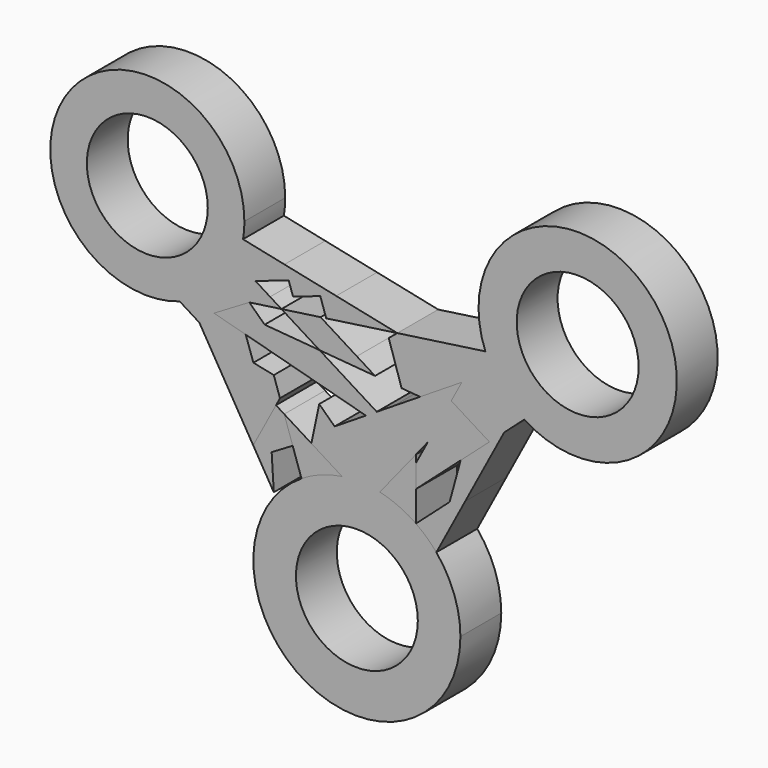
from build123d import *

# Parameters (mm, degrees)
F0_R     = 10.6549645795
F1_DEPTH = 9
F0_R_2   = 10.7427439212
F0_R_3   = 10.7368986297
F2_DEPTH = 9


with BuildPart() as f1:
    # F0 (on Front) → F1 (new body)
    with BuildSketch(Plane.XZ):
        with BuildLine():
            ThreePointArc((-20.0641651181, 8.3083463069), (-19.8847789494, 9.7287968623), (-19.8248435155, 11.1592747271))
            ThreePointArc((-19.8248435155, 11.1592747271), (-50.8899433357, 21.0294767793), (-31.2187251884, -4.9609924738))
            ThreePointArc((-31.2187251884, -4.9609924738), (-29.9643391784, -4.4603530234), (-28.7533751249, -3.8622809686))
            ThreePointArc((-28.7533751249, -3.8622809686), (-25.1760860399, -1.2658091713), (-22.3838279271, 2.160844827))
            ThreePointArc((-22.3838279271, 2.160844827), (-21.7131808774, 3.3479085645), (-21.1392335311, 4.5846268937))
            ThreePointArc((-21.1392335311, 4.5846268937), (-20.4958618387, 6.4159304479), (-20.0641651181, 8.3083463069))
        make_face()
        with Locations((-36.9254052639, 11.1592747271)):
            Circle(F0_R, mode=Mode.SUBTRACT)
        Polygon((-25.0467206421, -8.8123781663), (-27.7558582251, -7.1218522362), (-18.2671947269, -23.0767760102), (-15.3557659771, -17.6188090984), (-14.2515066154, -15.5486876646), align=None)
        Polygon((-18.2299170021, -10.2454867911), (-25.0467206421, -8.8123781663), (-14.2515066154, -15.5486876646), (-13.549314167, -14.2323088422), (-14.6395119997, -11.0003039528), align=None)
        with BuildLine():
            ThreePointArc((-28.7533751249, -3.8622809686), (-29.9643391784, -4.4603530234), (-31.2187251884, -4.9609924738))
            Line((-31.2187251884, -4.9609924738), (-27.7558582251, -7.1218522362))
            Line((-27.7558582251, -7.1218522362), (-25.0467206421, -8.8123781663))
            Line((-25.0467206421, -8.8123781663), (-18.2299170021, -10.2454867911))
            Line((-18.2299170021, -10.2454867911), (-19.5899773533, -6.3213815905))
            Line((-19.5899773533, -6.3213815905), (-25.1752715024, -4.8225052285))
            Line((-25.1752715024, -4.8225052285), (-28.7533751249, -3.8622809686))
        make_face()
        with BuildLine():
            ThreePointArc((-22.3838279271, 2.160844827), (-25.1760860399, -1.2658091713), (-28.7533751249, -3.8622809686))
            Line((-28.7533751249, -3.8622809686), (-25.1752715024, -4.8225052285))
            Line((-25.1752715024, -4.8225052285), (-18.9498499083, -1.120141527))
            Line((-18.9498499083, -1.120141527), (-22.3838279271, 2.160844827))
        make_face()
        with BuildLine():
            Line((-17.8814207304, 2.5517227513), (-21.1392335311, 4.5846268937))
            ThreePointArc((-21.1392335311, 4.5846268937), (-21.7131808774, 3.3479085645), (-22.3838279271, 2.160844827))
            Line((-22.3838279271, 2.160844827), (-18.9498499083, -1.120141527))
            Line((-18.9498499083, -1.120141527), (-13.2888618781, -0.3140747904))
            Line((-13.2888618781, -0.3140747904), (-15.2833322411, 0.9304924426))
            Line((-15.2833322411, 0.9304924426), (-17.8814207304, 2.5517227513))
        make_face()
        with BuildLine():
            Line((-12.7662490274, 6.7740925649), (-20.0641651181, 8.3083463069))
            ThreePointArc((-20.0641651181, 8.3083463069), (-20.4958618387, 6.4159304479), (-21.1392335311, 4.5846268937))
            Line((-21.1392335311, 4.5846268937), (-17.8814207304, 2.5517227513))
            Line((-17.8814207304, 2.5517227513), (-12.0100549904, 4.5317209614))
            Line((-12.0100549904, 4.5317209614), (-12.7662490274, 6.7740925649))
        make_face()
        Polygon((-3.6427459963, 4.856042468), (-12.7662490274, 6.7740925649), (-12.0100549904, 4.5317209614), (-11.2538609534, 2.2893493578), (-6.4448630441, 3.9110857092), align=None)
        Polygon((7.1240645524, 2.5925169398), (-3.6427459963, 4.856042468), (-6.4448630441, 3.9110857092), (-5.3988756119, 0.809378474), align=None)
    extrude(amount=F1_DEPTH)


with BuildPart() as f1b:
    # F0 (on Front) → F1, piece 2 (new body)
    with BuildSketch(Plane.XZ):
        Polygon((20.3268225381, -0.1831221045), (7.1240645524, 2.5925169398), (5.614161229, 1.3388415648), (7.8762154199, -5.7102254828), (11.1348283668, -5.9817398032), (12.4938078114, -5.1244500669), (18.489636341, -1.3420806721), align=None)
        with BuildLine():
            Line((22.6365502477, 4.8013360815), (7.1240645524, 2.5925169398))
            Line((7.1240645524, 2.5925169398), (20.3268225381, -0.1831221045))
            Line((20.3268225381, -0.1831221045), (23.9641546685, 2.1114287921))
            ThreePointArc((23.9641546685, 2.1114287921), (23.242508483, 3.4278335283), (22.6365502477, 4.8013360815))
        make_face()
        with BuildLine():
            Line((23.9641546685, 2.1114287921), (20.3268225381, -0.1831221045))
            Line((20.3268225381, -0.1831221045), (18.489636341, -1.3420806721))
            Line((18.489636341, -1.3420806721), (16.6330827417, -4.8225052285))
            Line((16.6330827417, -4.8225052285), (23.3463423185, -9.0116388705))
            Line((23.3463423185, -9.0116388705), (25.9445380029, -6.6990820895))
            Line((25.9445380029, -6.6990820895), (29.4831423015, -3.5495027815))
            ThreePointArc((29.4831423015, -3.5495027815), (26.3991907736, -1.0353591536), (23.9641546685, 2.1114287921))
        make_face()
        Polygon((19.1012873615, -19.5802079989), (25.9445380029, -6.6990820895), (23.3463423185, -9.0116388705), (18.2790667344, -13.5218313026), align=None)
        Polygon((16.345179662, -20.6019715923), (14.0030779473, -29.1766236231), (19.1012873615, -19.5802079989), (18.2790667344, -13.5218313026), align=None)
        with BuildLine():
            ThreePointArc((10.4080032293, -25.886430227), (12.315906958, -27.410933605), (14.0030779473, -29.1766236231))
            Line((14.0030779473, -29.1766236231), (16.345179662, -20.6019715923))
            Line((16.345179662, -20.6019715923), (10.4080032293, -25.886430227))
        make_face()
        with BuildLine():
            ThreePointArc((56.3764595874, 11.1592747271), (35.6725420551, 28.3261386375), (22.6365502477, 4.8013360815))
            ThreePointArc((22.6365502477, 4.8013360815), (23.242508483, 3.4278335283), (23.9641546685, 2.1114287921))
            ThreePointArc((23.9641546685, 2.1114287921), (26.3991907736, -1.0353591536), (29.4831423015, -3.5495027815))
            ThreePointArc((29.4831423015, -3.5495027815), (47.2899577301, -4.1671619954), (56.3764595874, 11.1592747271))
        make_face()
        with Locations((38.9074608684, 11.1592747271)):
            Circle(F0_R_2, mode=Mode.SUBTRACT)
    extrude(amount=F1_DEPTH)


with BuildPart() as f1c:
    # F0 (on Front) → F1, piece 3 (new body)
    with BuildSketch(Plane.XZ):
        with BuildLine():
            Line((10.4080032293, -16.4924724238), (6.4979792818, -23.8224753755))
            ThreePointArc((6.4979792818, -23.8224753755), (8.5157523786, -24.7355560658), (10.4080032293, -25.886430227))
            Line((10.4080032293, -25.886430227), (10.4080032293, -20.5275704744))
            Line((10.4080032293, -20.5275704744), (10.4080032293, -16.4924724238))
        make_face()
        with BuildLine():
            Line((8.2622126873, -17.829527017), (4.0306175632, -23.0767760102))
            ThreePointArc((4.0306175632, -23.0767760102), (5.2774856482, -23.405991948), (6.4979792818, -23.8224753755))
            Line((6.4979792818, -23.8224753755), (10.4080032293, -16.4924724238))
            Line((10.4080032293, -16.4924724238), (10.4080032293, -15.1687107218))
            Line((10.4080032293, -15.1687107218), (8.2622126873, -17.829527017))
        make_face()
    extrude(amount=F1_DEPTH)


with BuildPart() as f1d:
    # F0 (on Front) → F1, piece 4 (new body)
    with BuildSketch(Plane.XZ):
        with BuildLine():
            Line((-8.0116618445, -19.4424062602), (-12.799695782, -16.4546305281))
            Line((-12.799695782, -16.4546305281), (-11.309759062, -20.8717029341))
            Line((-11.309759062, -20.8717029341), (-9.7626927787, -25.4581418738))
            ThreePointArc((-9.7626927787, -25.4581418738), (-6.3257664341, -23.7578184265), (-2.6093390953, -22.8135036705))
            Line((-2.6093390953, -22.8135036705), (-8.0116618445, -19.4424062602))
        make_face()
    extrude(amount=F1_DEPTH)


with BuildPart() as f2:
    # F0 (on Front) → F2 (new body)
    with BuildSketch(Plane.XZ):
        with BuildLine():
            ThreePointArc((-2.6093390953, -22.8135036705), (-6.3257664341, -23.7578184265), (-9.7626927787, -25.4581418738))
            ThreePointArc((-9.7626927787, -25.4581418738), (-8.7944218619, -56.8503935348), (18.2421567817, -40.8680774271))
            ThreePointArc((18.2421567817, -40.8680774271), (17.1496738656, -34.6499611244), (14.0030779473, -29.1766236231))
            ThreePointArc((14.0030779473, -29.1766236231), (12.315906958, -27.410933605), (10.4080032293, -25.886430227))
            ThreePointArc((10.4080032293, -25.886430227), (8.5157523786, -24.7355560658), (6.4979792818, -23.8224753755))
            ThreePointArc((6.4979792818, -23.8224753755), (5.2774856482, -23.405991948), (4.0306175632, -23.0767760102))
            ThreePointArc((4.0306175632, -23.0767760102), (0.7227283045, -22.6402430016), (-2.6093390953, -22.8135036705))
        make_face()
        with Locations((0, -40.8680774271)):
            Circle(F0_R_3, mode=Mode.SUBTRACT)
        with BuildLine():
            Line((-6.6336407615, -12.8876350643), (-8.0116618445, -19.4424062602))
            Line((-8.0116618445, -19.4424062602), (-2.6093390953, -22.8135036705))
            ThreePointArc((-2.6093390953, -22.8135036705), (0.7227283045, -22.6402430016), (4.0306175632, -23.0767760102))
            Line((4.0306175632, -23.0767760102), (-1.6044713798, -17.6927433157))
            Line((-1.6044713798, -17.6927433157), (-3.9209753848, -15.479444923))
            Line((-3.9209753848, -15.479444923), (-6.6336407615, -12.8876350643))
        make_face()
        Polygon((-1.6044713798, -17.6927433157), (4.0306175632, -23.0767760102), (8.2622126873, -17.829527017), align=None)
        Polygon((23.3463423185, -9.0116388705), (16.6330827417, -4.8225052285), (12.4938078114, -12.5822780238), (10.4080032293, -16.4924724238), (10.4080032293, -20.5275704744), (18.2790667344, -13.5218313026), align=None)
        Polygon((-6.5703091643, -4.506511397), (-16.2496871909, -3.7000057488), (-11.1298363847, -8.5917553575), (1.5874098329, -12.0045710905), (3.5060337104, -10.7942389073), align=None)
        Polygon((16.6330827417, -4.8225052285), (18.489636341, -1.3420806721), (12.4938078114, -5.1244500669), (11.1348283668, -5.9817398032), (6.4692324018, -8.924953956), (10.4080032293, -15.1687107218), (12.4938078114, -12.5822780238), align=None)
        Polygon((6.4692324018, -8.924953956), (3.5060337104, -10.7942389073), (4.0306175632, -11.1215838939), (8.2622126873, -17.829527017), (10.4080032293, -15.1687107218), align=None)
        Polygon((3.5060337104, -10.7942389073), (1.5874098329, -12.0045710905), (-3.9209753848, -15.479444923), (-1.6044713798, -17.6927433157), (8.2622126873, -17.829527017), (4.0306175632, -11.1215838939), align=None)
        Polygon((-18.9498499083, -1.120141527), (-25.1752715024, -4.8225052285), (-19.5899773533, -6.3213815905), (-15.8821335544, -7.3164230827), (-11.1298363847, -8.5917553575), (-16.2496871909, -3.7000057488), align=None)
    extrude(amount=F2_DEPTH)


with BuildPart() as f2b:
    # F0 (on Front) → F2, piece 2 (new body)
    with BuildSketch(Plane.XZ):
        Polygon((-15.3557659771, -17.6188090984), (-18.2671947269, -23.0767760102), (-14.6395119997, -29.1766236231), (-15.017528112, -23.0767760102), align=None)
        Polygon((-12.799695782, -16.4546305281), (-14.2515066154, -15.5486876646), (-15.3557659771, -17.6188090984), (-15.017528112, -23.0767760102), (-11.309759062, -20.8717029341), align=None)
    extrude(amount=F2_DEPTH)


with BuildPart() as f2c:
    # F0 (on Front) → F2, piece 3 (new body)
    with BuildSketch(Plane.XZ):
        Polygon((-6.3944912084, 0.6676130064), (-13.2888618781, -0.3140747904), (-6.5703091643, -4.506511397), (3.2021432602, -5.320772195), (0, -3.3226063406), align=None)
    extrude(amount=F2_DEPTH)


solid = Compound([f1.part, f1b.part, f1c.part, f1d.part, f2.part, f2b.part, f2c.part])
